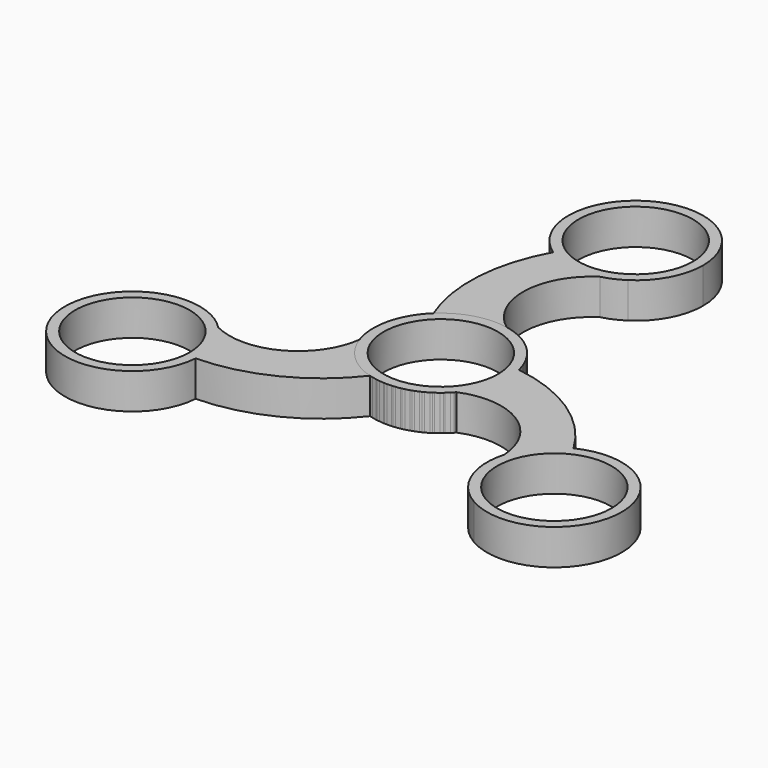
from build123d import *

# Parameters (mm, degrees)
F0_R     = 11.25
F1_DEPTH = 7
F2_COUNT = 3


with BuildPart() as f1:
    # F0 (on Top) → F1 (new body)
    with BuildSketch(Plane.XY):
        with BuildLine():
            ThreePointArc((-9.1218075928, 9.6101574513), (-5.2296534013, -12.1742854124), (13.25, 0))
            ThreePointArc((13.25, 0), (10.2175824411, 8.4358466711), (2.5083382553, 13.0104088789))
            ThreePointArc((2.5083382553, 13.0104088789), (-3.7181879474, 12.7176089886), (-9.1218075928, 9.6101574513))
        make_face()
        Circle(F0_R, mode=Mode.SUBTRACT)
        with BuildLine():
            ThreePointArc((-9.1218075928, 9.6101574513), (-3.7181879474, 12.7176089886), (2.5083382553, 13.0104088789))
            ThreePointArc((2.5083382553, 13.0104088789), (-2.8299949951, 24.2180455176), (3.2397314523, 35.0470501705))
            ThreePointArc((3.2397314523, 35.0470501705), (-2.3043882019, 34.8468001547), (-7.444532111, 36.933971303))
            ThreePointArc((-7.444532111, 36.933971303), (-11.3926090586, 23.4629376635), (-9.1218075928, 9.6101574513))
        make_face()
        with BuildLine():
            ThreePointArc((7.3211244348, 36.851161631), (5.2053769886, 36.1188916638), (3.2397314523, 35.0470501705))
            ThreePointArc((3.2397314523, 35.0470501705), (5.3569229795, 35.7760532322), (7.3211244348, 36.851161631))
        make_face()
        with BuildLine():
            ThreePointArc((-7.444532111, 36.933971303), (-2.3043882019, 34.8468001547), (3.2397314523, 35.0470501705))
            ThreePointArc((3.2397314523, 35.0470501705), (5.2053769886, 36.1188916638), (7.3211244348, 36.851161631))
            ThreePointArc((7.3211244348, 36.851161631), (11.6740609636, 41.6275962891), (13.25, 47.8948764503))
            ThreePointArc((13.25, 47.8948764503), (-6.2017114383, 59.6039018254), (-7.444532111, 36.933971303))
        make_face()
        with Locations((0, 47.8948764503)):
            Circle(F0_R, mode=Mode.SUBTRACT)
    extrude(amount=F1_DEPTH)


with BuildPart() as f2_1:
    # F2: instance of F1
    add(f1.part.rotate(Axis((0, 0, 7), (0, 0, 1)), 1 * 360 / F2_COUNT))


with BuildPart() as f2_2:
    # F2: instance of F1
    add(f1.part.rotate(Axis((0, 0, 7), (0, 0, 1)), 2 * 360 / F2_COUNT))


solid = Compound([f1.part, f2_1.part, f2_2.part])
